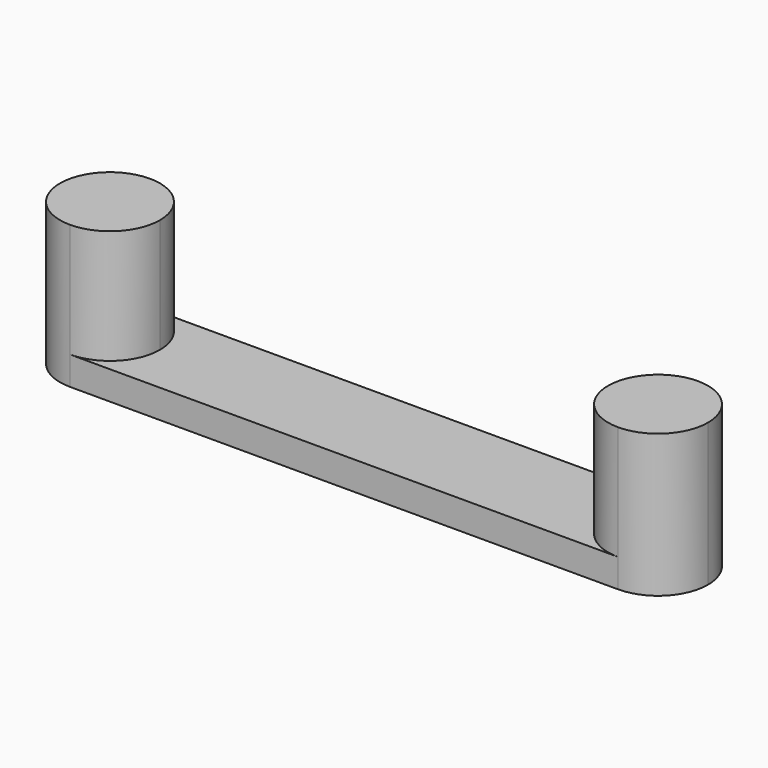
from build123d import *

# Parameters (mm, degrees)
F1_DEPTH = 1
F2_DEPTH = 5


with BuildPart() as f1:
    # F0 (on Top) → F1 (new body)
    with BuildSketch(Plane.XY):
        with BuildLine():
            ThreePointArc((-9.6, 1.75), (-8.362563, 1.237437), (-7.85, 0))
            Line((-7.85, 0), (7.85, 0))
            ThreePointArc((7.85, 0), (8.362563, 1.237437), (9.6, 1.75))
            Line((9.6, 1.75), (-9.6, 1.75))
        make_face()
        with BuildLine():
            Line((7.85, 0), (-7.85, 0))
            ThreePointArc((-7.85, 0), (-8.362563, -1.237437), (-9.6, -1.75))
            Line((-9.6, -1.75), (9.6, -1.75))
            ThreePointArc((9.6, -1.75), (8.362563, -1.237437), (7.85, 0))
        make_face()
    extrude(amount=F1_DEPTH)

    # F0 (on Top) → F2 (join)
    with BuildSketch(Plane.XY):
        with BuildLine():
            Line((9.6, 1.75), (9.6, 0))
            Line((9.6, 0), (9.6, -1.75))
            ThreePointArc((9.6, -1.75), (10.837437, -1.237437), (11.35, 0))
            ThreePointArc((11.35, 0), (10.837437, 1.237437), (9.6, 1.75))
        make_face()
        with BuildLine():
            ThreePointArc((9.6, 1.75), (8.362563, 1.237437), (7.85, 0))
            Line((7.85, 0), (9.6, 0))
            Line((9.6, 0), (9.6, 1.75))
        make_face()
        with BuildLine():
            Line((9.6, 0), (7.85, 0))
            ThreePointArc((7.85, 0), (8.362563, -1.237437), (9.6, -1.75))
            Line((9.6, -1.75), (9.6, 0))
        make_face()
        with BuildLine():
            Line((-9.6, 0), (-7.85, 0))
            ThreePointArc((-7.85, 0), (-8.362563, 1.237437), (-9.6, 1.75))
            Line((-9.6, 1.75), (-9.6, 0))
        make_face()
        with BuildLine():
            ThreePointArc((-9.6, -1.75), (-8.362563, -1.237437), (-7.85, 0))
            Line((-7.85, 0), (-9.6, 0))
            Line((-9.6, 0), (-9.6, -1.75))
        make_face()
        with BuildLine():
            Line((-9.6, -1.75), (-9.6, 0))
            Line((-9.6, 0), (-9.6, 1.75))
            ThreePointArc((-9.6, 1.75), (-11.35, 0), (-9.6, -1.75))
        make_face()
    extrude(amount=F2_DEPTH)


solid = f1.part
